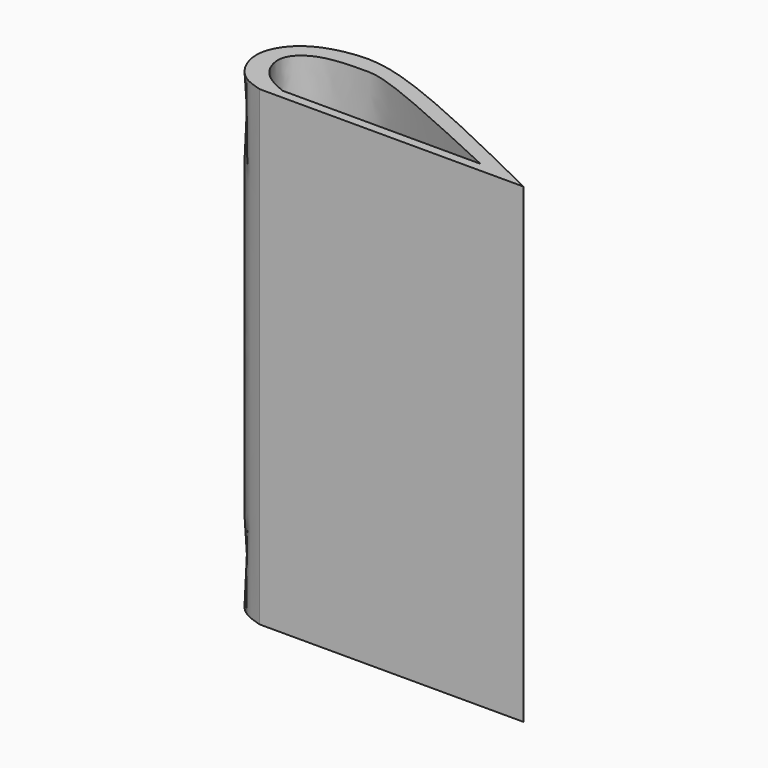
from build123d import *

# Parameters (mm, degrees)
F1_DEPTH = 150
F3_DEPTH = 140


with BuildPart() as f1:
    # F0 (on Top) → F1 (new body)
    with BuildSketch(Plane.XY):
        with BuildLine():
            Line((-20, 0), (0, 0))
            Line((0, 0), (50, 0))
            Line((50, 0), (64, 0))
            add(Edge.make_bspline(
                [(-20, 0), (-22.5852191064, 0.7531217975), (-28.2287084276, 2.397171632), (-34.3229876533, 14.1618163283), (-27.5108706206, 25.8001333399), (-13.7857456087, 29.9400383937), (3.7722013465, 29.4847605317), (39.7491269451, 11.8746221095), (64, 0)],
                knots=[0, 0, 0, 0, 0.1119373815, 0.2443473474, 0.3786742229, 0.5198811387, 0.6762817524, 1, 1, 1, 1], degree=3))
        make_face()
    extrude(amount=F1_DEPTH)

    # F2 (on face) → F3 (cut)
    with BuildSketch(Plane.XY.offset(150)):
        with BuildLine():
            Line((-15, 2.8924762737), (0, 2.8924762737))
            Line((0, 2.8924762737), (48, 2.8924762737))
            add(Edge.make_bspline(
                [(-15, 2.8924762737), (-18.0198967646, 4.1914608635), (-23.9605244104, 6.7467746265), (-28.0569525505, 17.1637982244), (-19.5814585604, 23.9486888065), (-7.240019759, 24.1297992729), (1.1417912551, 24.5655074402), (28.3615781842, 11.9757114096), (48, 2.8924762737)],
                knots=[0, 0, 0, 0, 0.1377107987, 0.270899518, 0.4047097245, 0.5561027165, 0.6797387827, 1, 1, 1, 1], degree=3))
        make_face()
    extrude(amount=-F3_DEPTH, mode=Mode.SUBTRACT)


solid = f1.part
